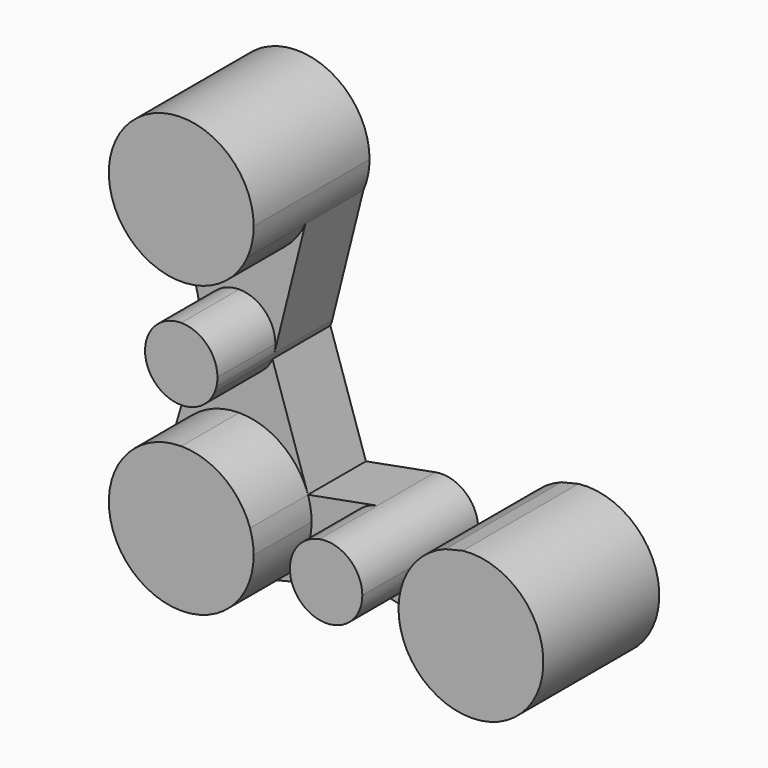
from build123d import *

# Parameters (mm, degrees)
F1_DEPTH = 50.8
F2_DEPTH = 25.4


with BuildPart() as f1:
    # F0 (on Front) → F1 (new body)
    with BuildSketch(Plane.XZ):
        with BuildLine():
            Line((-126.9482876411, 39.7340031956), (-123.5806948942, 25.3857521911))
            ThreePointArc((-123.5806948942, 25.3857521911), (-114.2858532953, 16.1088230455), (-101.6, 12.7140298423))
            ThreePointArc((-101.6, 12.7140298423), (-87.7423071309, 16.8273121915), (-78.3728507562, 27.8349472954))
            ThreePointArc((-78.3728507562, 27.8349472954), (-76.7491490006, 32.8609160415), (-76.2, 38.1140298423))
            ThreePointArc((-76.2, 38.1140298423), (-100.7896007414, 63.5010984609), (-126.9482876411, 39.7340031956))
        make_face()
        with BuildLine():
            ThreePointArc((-126.9482876411, 39.7340031956), (-126.3280452863, 32.3102572485), (-123.5806948942, 25.3857521911))
            Line((-123.5806948942, 25.3857521911), (-126.9482876411, 39.7340031956))
        make_face()
    extrude(amount=F1_DEPTH)


with BuildPart() as f1b:
    # F0 (on Front) → F1, piece 2 (new body)
    with BuildSketch(Plane.XZ):
        with BuildLine():
            ThreePointArc((-113.9640226431, -15.5878564546), (-109.4878401362, -22.6394609014), (-101.6, -25.3859701577))
            Line((-101.6, -25.3859701577), (-101.6, -12.6859701577))
            Line((-101.6, -12.6859701577), (-101.6, 0.0140298423))
            ThreePointArc((-101.6, 0.0140298423), (-111.5534907437, -4.7981300214), (-113.9640226431, -15.5878564546))
        make_face()
        with BuildLine():
            Line((-101.6, -12.6859701577), (-101.6, -25.3859701577))
            ThreePointArc((-101.6, -25.3859701577), (-94.6148006654, -23.2924299938), (-89.93256123, -17.7020316154))
            ThreePointArc((-89.93256123, -17.7020316154), (-89.5671486402, -16.7480494469), (-89.279593227, -15.7677840629))
            ThreePointArc((-89.279593227, -15.7677840629), (-88.9952555358, -14.2385219253), (-88.9, -12.6859701577))
            ThreePointArc((-88.9, -12.6859701577), (-92.6197438789, -3.7057140366), (-101.6, 0.0140298423))
            Line((-101.6, 0.0140298423), (-101.6, -12.6859701577))
        make_face()
    extrude(amount=F1_DEPTH)


with BuildPart() as f1c:
    # F0 (on Front) → F1, piece 3 (new body)
    with BuildSketch(Plane.XZ):
        with BuildLine():
            Line((-101.6, -38.0859701577), (-101.6, -63.4859701577))
            Line((-101.6, -63.4859701577), (-76.2, -63.4859701577))
            ThreePointArc((-76.2, -63.4859701577), (-76.5205133877, -59.4636137262), (-77.4739646663, -55.5427706087))
            ThreePointArc((-77.4739646663, -55.5427706087), (-86.7103604568, -42.9078595964), (-101.6, -38.0859701577))
        make_face()
        with BuildLine():
            Line((-76.2, -63.4859701577), (-101.6, -63.4859701577))
            Line((-101.6, -63.4859701577), (-101.6, -38.0859701577))
            ThreePointArc((-101.6, -38.0859701577), (-116.811510971, -43.1446345579), (-125.9639724125, -56.3056603954))
            ThreePointArc((-125.9639724125, -56.3056603954), (-117.4819728344, -83.3082540545), (-89.279593227, -85.6978493431))
            ThreePointArc((-89.279593227, -85.6978493431), (-79.7128081742, -76.3743693594), (-76.2, -63.4859701577))
        make_face()
    extrude(amount=F1_DEPTH)


with BuildPart() as f1d:
    # F0 (on Front) → F1, piece 4 (new body)
    with BuildSketch(Plane.XZ):
        with BuildLine():
            Line((-50.8, -63.4859701577), (-63.5, -63.4859701577))
            ThreePointArc((-63.5, -63.4859701577), (-50.8, -76.1859701577), (-38.1, -63.4859701577))
            Line((-38.1, -63.4859701577), (-50.8, -63.4859701577))
        make_face()
        with BuildLine():
            ThreePointArc((-53.1289405052, -51.0013381597), (-60.5690210465, -55.3707851448), (-63.5, -63.4859701577))
            Line((-63.5, -63.4859701577), (-50.8, -63.4859701577))
            Line((-50.8, -63.4859701577), (-38.1, -63.4859701577))
            ThreePointArc((-38.1, -63.4859701577), (-42.6848149872, -53.7169491111), (-53.1289405052, -51.0013381597))
        make_face()
    extrude(amount=F1_DEPTH)


with BuildPart() as f1e:
    # F0 (on Front) → F1, piece 5 (new body)
    with BuildSketch(Plane.XZ):
        with BuildLine():
            ThreePointArc((-8.9594860061, -39.718605758), (-20.8893626585, -49.0362460177), (-25.4, -63.4859701577))
            ThreePointArc((-25.4, -63.4859701577), (-19.9088360045, -79.2593099735), (-5.8095866971, -88.2126501291))
            ThreePointArc((-5.8095866971, -88.2126501291), (15.7733398159, -83.3948061621), (25.4, -63.4859701577))
            ThreePointArc((25.4, -63.4859701577), (16.9133047971, -44.5360329324), (-2.8756000662, -38.249272191))
            Line((-2.8756000662, -38.249272191), (-8.9594860061, -39.718605758))
        make_face()
    extrude(amount=F1_DEPTH)


with BuildPart() as f2:
    # F0 (on Front) → F2 (new body)
    with BuildSketch(Plane.XZ):
        with BuildLine():
            Line((-123.5806948942, 25.3857521911), (-113.9640226431, -15.5878564546))
            ThreePointArc((-113.9640226431, -15.5878564546), (-111.5534907437, -4.7981300214), (-101.6, 0.0140298423))
            Line((-101.6, 0.0140298423), (-101.6, 12.7140298423))
            ThreePointArc((-101.6, 12.7140298423), (-114.2858532953, 16.1088230455), (-123.5806948942, 25.3857521911))
        make_face()
        with BuildLine():
            ThreePointArc((-88.9, -12.6859701577), (-88.9952555358, -14.2385219253), (-89.279593227, -15.7677840629))
            Line((-89.279593227, -15.7677840629), (-78.3728507562, 27.8349472954))
            ThreePointArc((-78.3728507562, 27.8349472954), (-87.7423071309, 16.8273121915), (-101.6, 12.7140298423))
            Line((-101.6, 12.7140298423), (-101.6, 0.0140298423))
            ThreePointArc((-101.6, 0.0140298423), (-92.6197438789, -3.7057140366), (-88.9, -12.6859701577))
        make_face()
    extrude(amount=F2_DEPTH)


with BuildPart() as f2b:
    # F0 (on Front) → F2, piece 2 (new body)
    with BuildSketch(Plane.XZ):
        with BuildLine():
            Line((-101.6, -25.3859701577), (-101.6, -38.0859701577))
            ThreePointArc((-101.6, -38.0859701577), (-86.7103604568, -42.9078595964), (-77.4739646663, -55.5427706087))
            Line((-77.4739646663, -55.5427706087), (-89.93256123, -17.7020316154))
            ThreePointArc((-89.93256123, -17.7020316154), (-94.6148006654, -23.2924299938), (-101.6, -25.3859701577))
        make_face()
        with BuildLine():
            ThreePointArc((-125.9639724125, -56.3056603954), (-116.811510971, -43.1446345579), (-101.6, -38.0859701577))
            Line((-101.6, -38.0859701577), (-101.6, -25.3859701577))
            ThreePointArc((-101.6, -25.3859701577), (-109.4878401362, -22.6394609014), (-113.9640226431, -15.5878564546))
            Line((-113.9640226431, -15.5878564546), (-125.9639724125, -56.3056603954))
        make_face()
    extrude(amount=F2_DEPTH)


with BuildPart() as f2c:
    # F0 (on Front) → F2, piece 3 (new body)
    with BuildSketch(Plane.XZ):
        with BuildLine():
            ThreePointArc((-77.4739646663, -55.5427706087), (-76.5205133877, -59.4636137262), (-76.2, -63.4859701577))
            Line((-76.2, -63.4859701577), (-63.5, -63.4859701577))
            ThreePointArc((-63.5, -63.4859701577), (-60.5690210465, -55.3707851448), (-53.1289405052, -51.0013381597))
            Line((-53.1289405052, -51.0013381597), (-77.4739646663, -55.5427706087))
        make_face()
        with BuildLine():
            Line((-63.5, -63.4859701577), (-76.2, -63.4859701577))
            ThreePointArc((-76.2, -63.4859701577), (-79.7128081742, -76.3743693594), (-89.279593227, -85.6978493431))
            Line((-89.279593227, -85.6978493431), (-53.1289405052, -77.0948660708))
            Line((-53.1289405052, -77.0948660708), (-5.8095866971, -88.2126501291))
            ThreePointArc((-5.8095866971, -88.2126501291), (-19.9088360045, -79.2593099735), (-25.4, -63.4859701577))
            Line((-25.4, -63.4859701577), (-38.1, -63.4859701577))
            ThreePointArc((-38.1, -63.4859701577), (-50.8, -76.1859701577), (-63.5, -63.4859701577))
        make_face()
    extrude(amount=F2_DEPTH)


solid = Compound([f1.part, f1b.part, f1c.part, f1d.part, f1e.part, f2.part, f2b.part, f2c.part])
